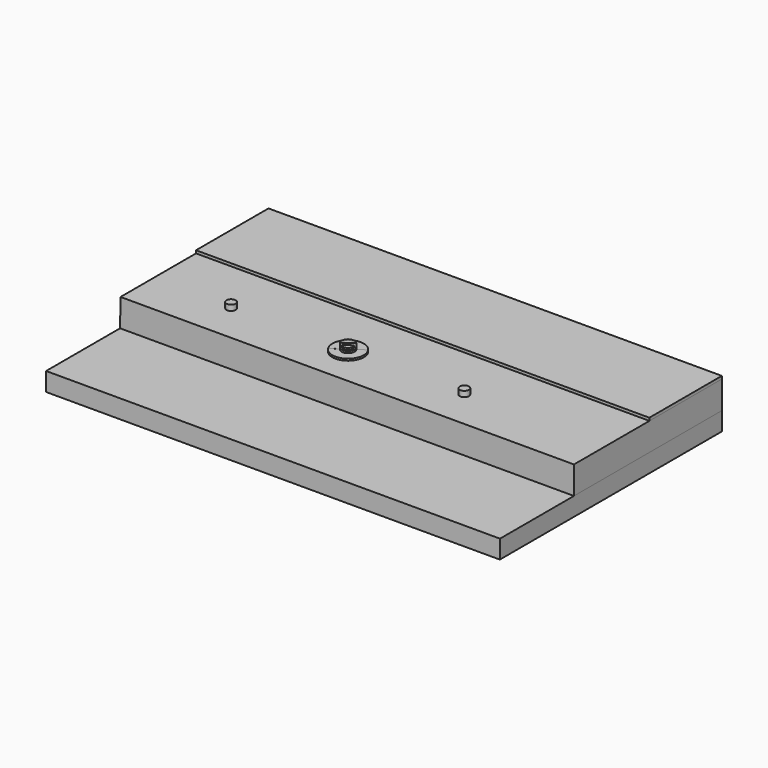
from build123d import *

# Parameters (mm, degrees)
F1_DEPTH  = 150
F2_DEPTH  = 100
F3_DEPTH  = 49
F4_R      = 2.5
F5_DEPTH  = 3
F6_DEPTH  = 3
F7_DEPTH  = 3
F8_DEPTH  = 4
F9_DEPTH  = 4
F10_DEPTH = 2
F11_DEPTH = 1
F12_DEPTH = 1


with BuildPart() as f1:
    # F0 (on Front) → F1 (new body)
    with BuildSketch(Plane.XZ):
        Polygon((-21.76261, 16), (-43.054478, 16), (-75.163431, 16), (-75.163431, 6.0003), (170.159972, 6.0003), (170.23739, 16), (148.945522, 16), (106.23739, 16), (84.945522, 16), (42.23739, 16), (20.945522, 16), align=None)
    extrude(amount=F1_DEPTH)


with BuildPart() as f2:
    # F0 (on Front) → F2 (new body)
    with BuildSketch(Plane.XZ):
        Polygon((-75.163431, 16), (-43.054478, 16), (-21.76261, 16), (20.945522, 16), (42.23739, 16), (84.945522, 16), (106.23739, 16), (148.945522, 16), (170.23739, 16), (170.23739, 31), (-74.911438, 31), align=None)
    extrude(amount=F2_DEPTH)


with BuildPart() as f3:
    # F0 (on Front) → F3 (new body)
    with BuildSketch(Plane.XZ):
        Polygon((-74.911438, 32.499531), (-74.911438, 31), (170.23739, 31), (170.199873, 32.499531), align=None)
    extrude(amount=F3_DEPTH)


with BuildPart() as f5:
    # F4 (on face) → F5 (new body)
    with BuildSketch(Plane.XY.offset(31)):
        with Locations((94.12609, -78.925343)):
            Circle(F4_R)
    extrude(amount=F5_DEPTH)


with BuildPart() as f6:
    # F4 (on face) → F6 (new body)
    with BuildSketch(Plane.XY.offset(31)):
        with Locations((-32.009708, -78.925343)):
            Circle(F4_R)
    extrude(amount=F6_DEPTH)


with BuildPart() as f7:
    # F4 (on face) → F7 (new body)
    with BuildSketch(Plane.XY.offset(31)):
        with BuildLine():
            ThreePointArc((29.16524, -80.318087), (31.969267, -81.317026), (33.741357, -78.925343))
            ThreePointArc((33.741357, -78.925343), (33.620999, -78.158986), (33.271515, -77.466419))
            Line((33.271515, -77.466419), (31.241357, -78.925343))
            Line((31.241357, -78.925343), (29.16524, -80.318087))
        make_face()
    extrude(amount=F7_DEPTH)


with BuildPart() as f8:
    # F4 (on face) → F8 (new body)
    with BuildSketch(Plane.XY.offset(31)):
        with BuildLine():
            Line((31.241357, -78.925343), (33.271515, -77.466419))
            ThreePointArc((33.271515, -77.466419), (29.838999, -76.855707), (29.133819, -80.270068))
            Line((29.133819, -80.270068), (31.241357, -78.925343))
        make_face()
    extrude(amount=F8_DEPTH)


with BuildPart() as f9:
    # F4 (on face) → F9 (new body)
    with BuildSketch(Plane.XY.offset(31)):
        with BuildLine():
            ThreePointArc((29.133819, -80.270068), (29.838999, -76.855707), (33.271515, -77.466419))
            Line((33.271515, -77.466419), (34.064402, -76.856425))
            ThreePointArc((34.064402, -76.856425), (29.264563, -76.037042), (28.290804, -80.807958))
            Line((28.290804, -80.807958), (29.133819, -80.270068))
        make_face()
    extrude(amount=F9_DEPTH)


with BuildPart() as f10:
    # F4 (on face) → F10 (new body)
    with BuildSketch(Plane.XY.offset(31)):
        with BuildLine():
            ThreePointArc((33.271515, -77.466419), (33.620999, -78.158986), (33.741357, -78.925343))
            ThreePointArc((33.741357, -78.925343), (31.969267, -81.317026), (29.16524, -80.318087))
            Line((29.16524, -80.318087), (28.349255, -80.896573))
            ThreePointArc((28.349255, -80.896573), (32.272775, -82.269917), (34.741357, -78.925343))
            ThreePointArc((34.741357, -78.925343), (34.567816, -77.836916), (34.064402, -76.856425))
            Line((34.064402, -76.856425), (33.271515, -77.466419))
        make_face()
    extrude(amount=F10_DEPTH)


with BuildPart() as f11:
    # F4 (on face) → F11 (new body)
    with BuildSketch(Plane.XY.offset(31)):
        with BuildLine():
            ThreePointArc((28.290804, -80.807958), (29.264563, -76.037042), (34.064402, -76.856425))
            Line((34.064402, -76.856425), (38.141315, -73.961415))
            ThreePointArc((38.141315, -73.961415), (26.471511, -71.889821), (24.075729, -83.497407))
            Line((24.075729, -83.497407), (28.290804, -80.807958))
        make_face()
    extrude(amount=F11_DEPTH)


with BuildPart() as f12:
    # F4 (on face) → F12 (new body)
    with BuildSketch(Plane.XY.offset(31)):
        with BuildLine():
            Line((38.141315, -73.961415), (34.064402, -76.856425))
            ThreePointArc((34.064402, -76.856425), (34.567816, -77.836916), (34.741357, -78.925343))
            ThreePointArc((34.741357, -78.925343), (32.272775, -82.269917), (28.349255, -80.896573))
            Line((28.349255, -80.896573), (24.075729, -83.497407))
            ThreePointArc((24.075729, -83.497407), (33.62276, -87.084933), (39.741357, -78.925343))
            ThreePointArc((39.741357, -78.925343), (39.331464, -76.317628), (38.141315, -73.961415))
        make_face()
    extrude(amount=F12_DEPTH)


solid = Compound([f1.part, f2.part, f3.part, f5.part, f6.part, f7.part, f8.part, f9.part, f10.part, f11.part, f12.part])
